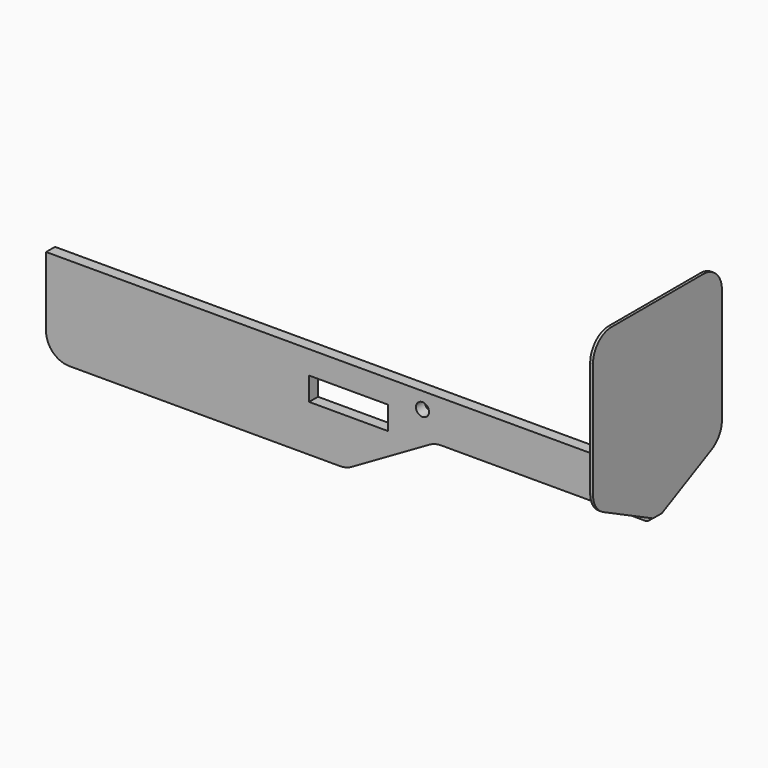
from build123d import *

# Parameters (mm, degrees)
F0_R     = 7
F1_DEPTH = 12
F2_W     = 85
F2_H     = 25
F3_DEPTH = 25
F5_DEPTH = 3


with BuildPart() as f1:
    # F0 (on Front) → F1 (new body)
    with BuildSketch(Plane.XZ):
        with BuildLine():
            Line((285, 0), (0, 0))
            Line((0, 0), (-365, 0))
            Line((-365, 0), (-365, -75))
            ThreePointArc((-365, -75), (-357.67767, -92.67767), (-340, -100))
            Line((-340, -100), (-48.660254, -100))
            ThreePointArc((-48.660254, -100), (-42.189778, -99.148146), (-36.160254, -96.650635))
            Line((-36.160254, -96.650635), (47.5, -48.349365))
            ThreePointArc((47.5, -48.349365), (53.529524, -45.851854), (60, -45))
            Line((60, -45), (280, -45))
            ThreePointArc((280, -45), (283.535534, -43.535534), (285, -40))
            Line((285, -40), (285, 0))
        make_face()
        with Locations((40, -17.5)):
            Circle(F0_R, mode=Mode.SUBTRACT)
        with Locations((260, -17.5)):
            Circle(F0_R, mode=Mode.SUBTRACT)
    extrude(amount=F1_DEPTH)

    # F2 (on face) → F3 (cut)
    with BuildSketch(Plane(origin=(0, 0, 0), x_dir=(-1, 0, 0), z_dir=(0, 1, 0))):
        with Locations((39.5, -37.5)):
            Rectangle(F2_W, F2_H)
    extrude(amount=-F3_DEPTH, mode=Mode.SUBTRACT)

    # F4 (on face) → F5 (join)
    with BuildSketch(Plane.YZ.offset(285)):
        with BuildLine():
            Line((-12, -40), (-6, -40))
            Line((-6, -40), (0, -40))
            Line((0, -40), (66.827433, -6.887593))
            ThreePointArc((66.827433, -6.887593), (76.970455, 2.331662), (80.727967, 15.513341))
            Line((80.727967, 15.513341), (80.727967, 138.932179))
            ThreePointArc((80.727967, 138.932179), (73.405636, 156.609848), (55.727967, 163.932179))
            Line((55.727967, 163.932179), (0, 163.932179))
            Line((0, 163.932179), (-12, 163.932179))
            Line((-12, 163.932179), (-67.727967, 163.932179))
            ThreePointArc((-67.727967, 163.932179), (-85.405636, 156.609848), (-92.727967, 138.932179))
            Line((-92.727967, 138.932179), (-92.727967, 15.513341))
            ThreePointArc((-92.727967, 15.513341), (-88.970455, 2.331662), (-78.827433, -6.887593))
            Line((-78.827433, -6.887593), (-12, -40))
        make_face()
    extrude(amount=F5_DEPTH)


solid = f1.part
